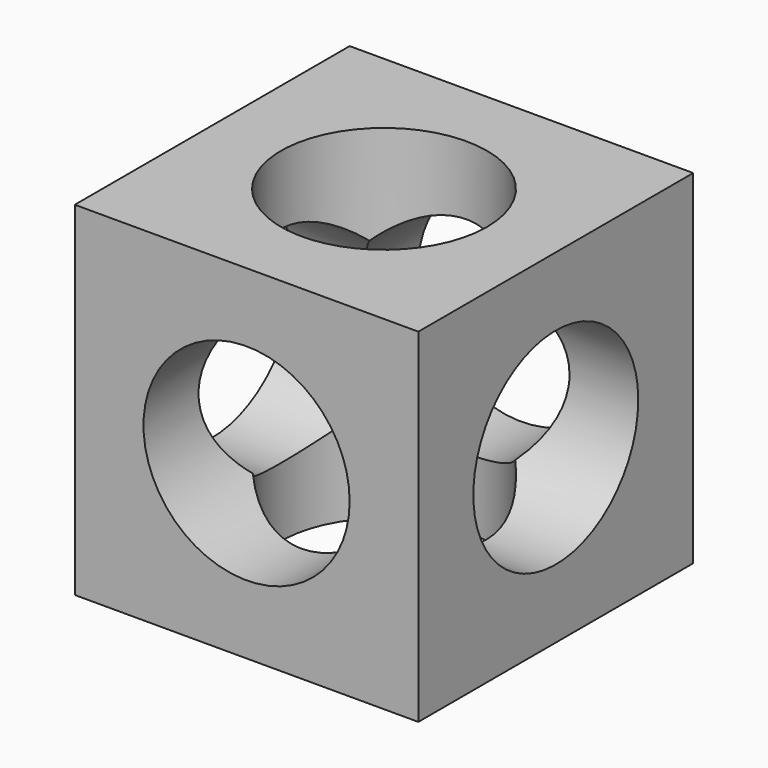
from build123d import *

# Parameters (mm, degrees)
F0_W     = 127
F0_H     = 127
F1_DEPTH = 127
F2_R     = 38.1
F3_DEPTH = 127
F4_R     = 38.1
F5_DEPTH = 127
F6_R     = 38.1
F7_DEPTH = 127


with BuildPart() as f1:
    # F0 (on Front) → F1 (new body)
    with BuildSketch(Plane.XZ):
        with Locations((63.5, 63.5)):
            Rectangle(F0_W, F0_H)
    extrude(amount=F1_DEPTH)

    # F2 (on face) → F3 (cut)
    with BuildSketch(Plane.YZ.offset(127)):
        with Locations((-63.5, 63.5)):
            Circle(F2_R)
    extrude(amount=-F3_DEPTH, mode=Mode.SUBTRACT)

    # F4 (on face) → F5 (cut)
    with BuildSketch(Plane.XZ.offset(127)):
        with Locations((63.5, 63.5)):
            Circle(F4_R)
    extrude(amount=-F5_DEPTH, mode=Mode.SUBTRACT)

    # F6 (on face) → F7 (cut)
    with BuildSketch(Plane.XY.offset(127)):
        with Locations((63.5, -63.5)):
            Circle(F6_R)
    extrude(amount=-F7_DEPTH, mode=Mode.SUBTRACT)


solid = f1.part
